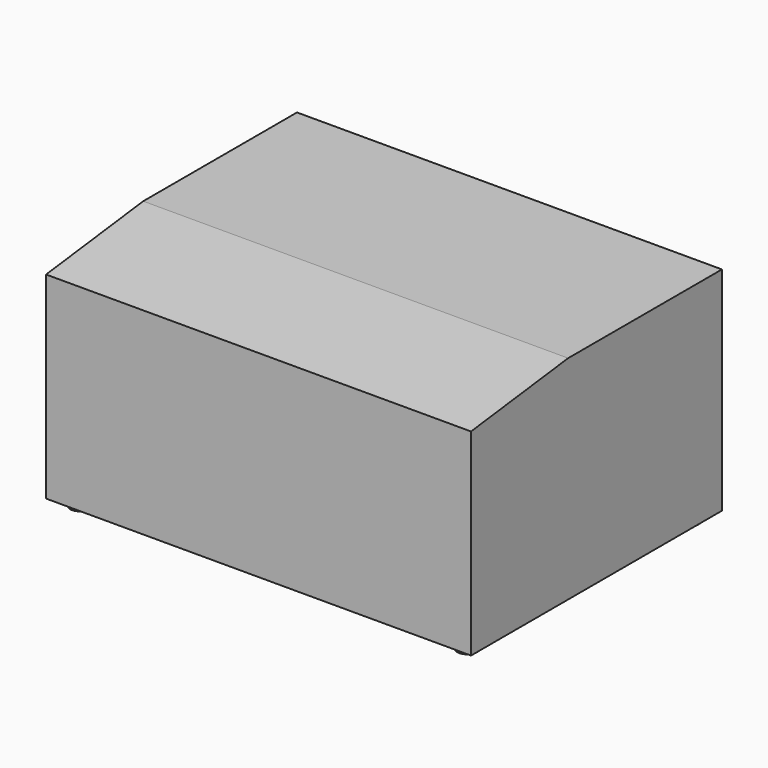
from build123d import *

# Parameters (mm, degrees)
F0_W     = 1066.8
F0_H     = 787.4
F1_DEPTH = 533.4
F2_R     = 25.4
F3_DEPTH = 19.05
F7_DEPTH = 1066.801


with BuildPart() as f1:
    # F0 (on Top) → F1 (new body)
    with BuildSketch(Plane.XY):
        Rectangle(F0_W, F0_H)
    extrude(amount=F1_DEPTH)

    # F6 (on face) → F7 (cut, through all)
    with BuildSketch(Plane(origin=(-533.4, 0, 0), x_dir=(0, -1, 0), z_dir=(-1, 0, 0))):
        Polygon((393.7, 533.4), (88.9, 533.4), (393.7, 495.3), align=None)
    extrude(amount=-F7_DEPTH, mode=Mode.SUBTRACT)


with BuildPart() as f3:
    # F2 (on face) → F3 (new body)
    with BuildSketch(Plane(origin=(0, 0, 0), x_dir=(1, 0, 0), z_dir=(0, 0, -1))):
        with Locations((-485.775, -346.075)):
            Circle(F2_R)
    extrude(amount=F3_DEPTH)


with BuildPart() as f4_1:
    # F4: instance of F3
    add(f3.part.mirror(Plane.XZ))


with BuildPart() as f5_1:
    # F5: instance of F3
    add(f3.part.mirror(Plane.YZ))


with BuildPart() as f5_2:
    # F5: instance of F4_1
    add(f4_1.part.mirror(Plane.YZ))


solid = Compound([f1.part, f3.part, f4_1.part, f5_1.part, f5_2.part])
